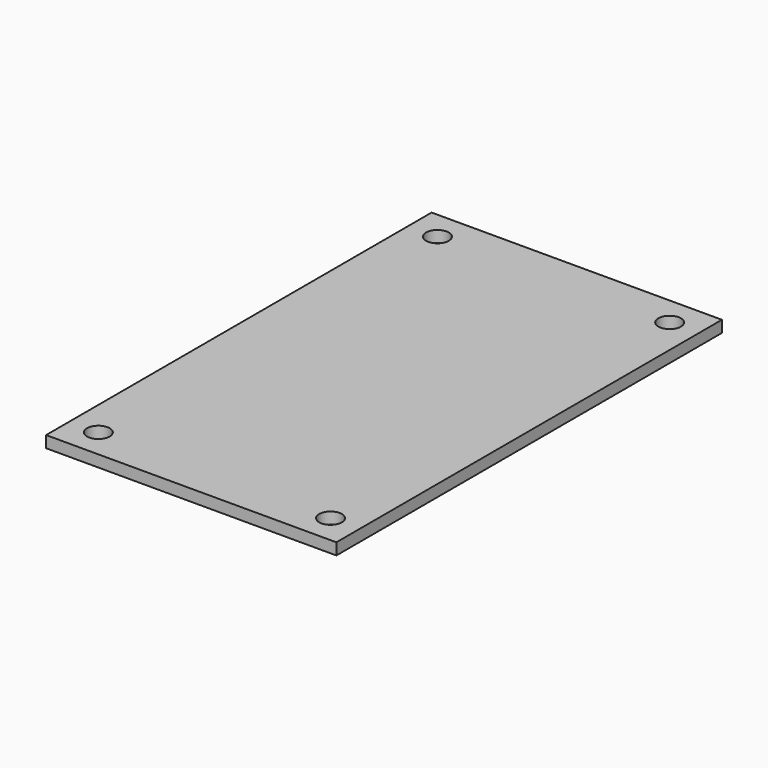
from build123d import *

# Parameters (mm, degrees)
F0_W     = 100
F0_H     = 126
F0_H_2   = 20
F0_R     = 3.9
F1_DEPTH = 4


with BuildPart() as f1:
    # F0 (on Top) → F1 (new body)
    with BuildSketch(Plane.XY):
        with Locations((50, -63)):
            Rectangle(F0_W, F0_H)
        with Locations((50, 10)):
            Rectangle(F0_W, F0_H_2)
        with Locations((10, 10)):
            Circle(F0_R, mode=Mode.SUBTRACT)
        with Locations((90, 10)):
            Circle(F0_R, mode=Mode.SUBTRACT)
        with Locations((50, -136)):
            Rectangle(F0_W, F0_H_2)
        with Locations((10, -136)):
            Circle(F0_R, mode=Mode.SUBTRACT)
        with Locations((90, -136)):
            Circle(F0_R, mode=Mode.SUBTRACT)
    extrude(amount=F1_DEPTH)


solid = f1.part
